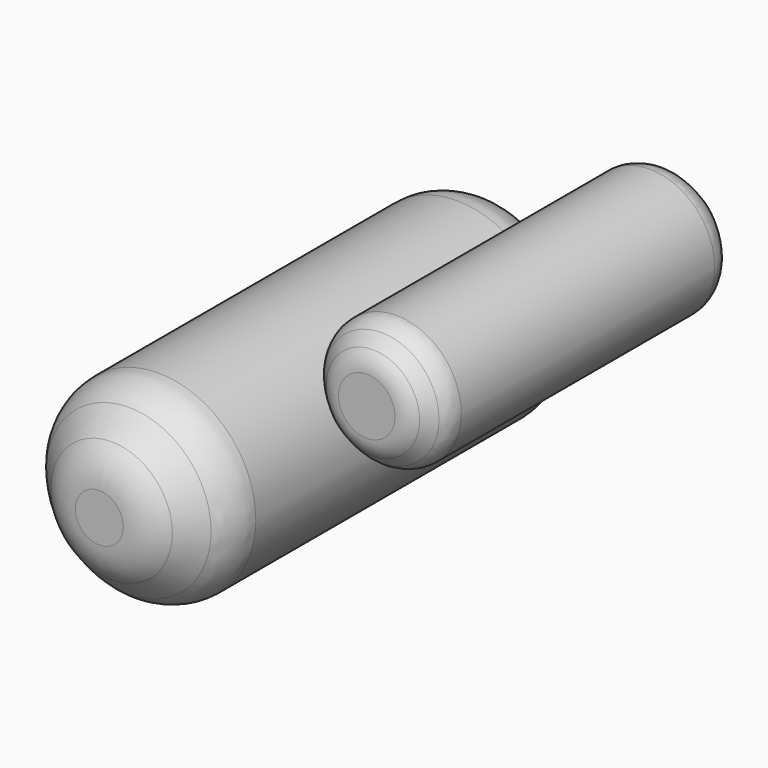
from build123d import *

# Parameters (mm, degrees)
F0_R     = 9.525
F1_DEPTH = 50.8
F2_SIZE  = 5.08
F3_R     = 5.08
F0_R_2   = 6.35
F4_DEPTH = 38.1
F5_SIZE  = 2.54
F6_R     = 2.54


with BuildPart() as f1:
    # F0 (on Front) → F1 (new body)
    with BuildSketch(Plane.XZ):
        with Locations((-24.0845345118, 42.5289943814)):
            Circle(F0_R)
    extrude(amount=F1_DEPTH)

    # F2
    f2_edges = [f1.edges().sort_by_distance(p)[0] for p in [
        (-33.609535, -50.8, 42.528994),
        (-33.609535, 0, 42.528994),
    ]]
    chamfer(f2_edges, length=F2_SIZE)

    # F3
    f3_edges = [f1.edges().sort_by_distance(p)[0] for p in [
        (-28.529535, -50.8, 42.528994),
        (-33.609535, -45.72, 42.528994),
        (-28.529535, 0, 42.528994),
        (-33.609535, -5.08, 42.528994),
    ]]
    fillet(f3_edges, radius=F3_R)


with BuildPart() as f4:
    # F0 (on Front) → F4 (new body)
    with BuildSketch(Plane.XZ):
        with Locations((-8.1353727403, 52.1368345658)):
            Circle(F0_R_2)
    extrude(amount=F4_DEPTH)

    # F5
    f5_edges = [f4.edges().sort_by_distance(p)[0] for p in [
        (-14.485373, 0, 52.136835),
        (-14.485373, -38.1, 52.136835),
    ]]
    chamfer(f5_edges, length=F5_SIZE)

    # F6
    f6_edges = [f4.edges().sort_by_distance(p)[0] for p in [
        (-11.945373, -38.1, 52.136835),
        (-3.055373, -36.83, 52.136835),
        (-14.485373, -35.56, 52.136835),
        (-14.485373, -2.54, 52.136835),
        (-11.945373, 0, 52.136835),
    ]]
    fillet(f6_edges, radius=F6_R)


solid = Compound([f1.part, f4.part])
